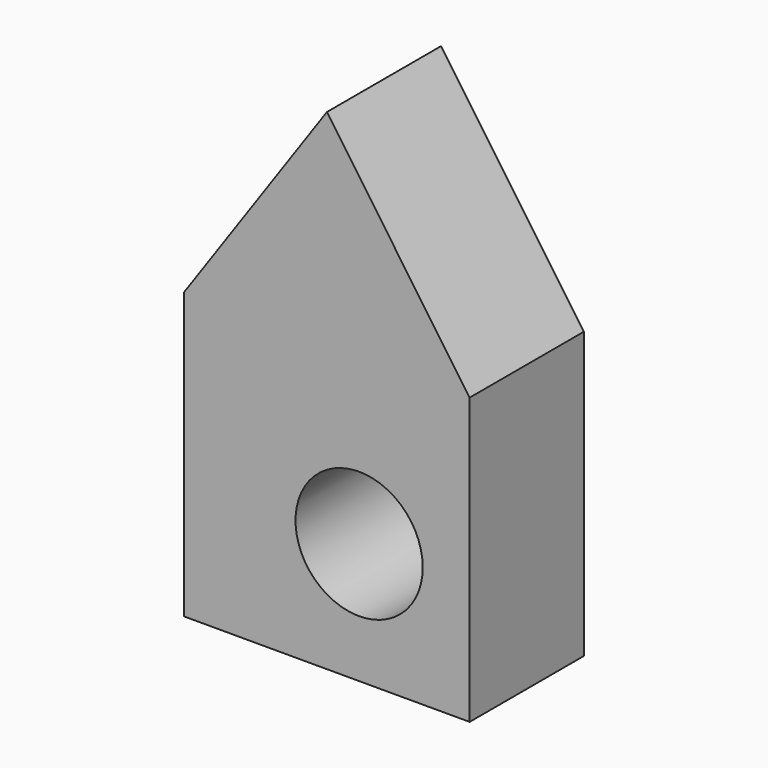
from build123d import *

# Parameters (mm, degrees)
F0_R     = 11.318858
F0_W     = 12.950891
F0_H     = 10.852726
F0_H_2   = 39.947274
F1_DEPTH = 25.4


with BuildPart() as f1:
    # F0 (on Front) → F1 (new body)
    with BuildSketch(Plane.XZ):
        Polygon((-12.449109, -25.4), (25.4, -25.4), (25.4, 25.4), (-12.449109, 25.4), (-12.449109, -14.547274), align=None)
        with Locations((5.734983, -3.916573)):
            Circle(F0_R, mode=Mode.SUBTRACT)
        with Locations((-18.924554, -19.973637)):
            Rectangle(F0_W, F0_H)
        Polygon((-12.449109, 25.4), (25.4, 25.4), (0, 61.877973), (-25.4, 25.4), align=None)
        with Locations((-18.924554, 5.426363)):
            Rectangle(F0_W, F0_H_2)
    extrude(amount=F1_DEPTH)


solid = f1.part
